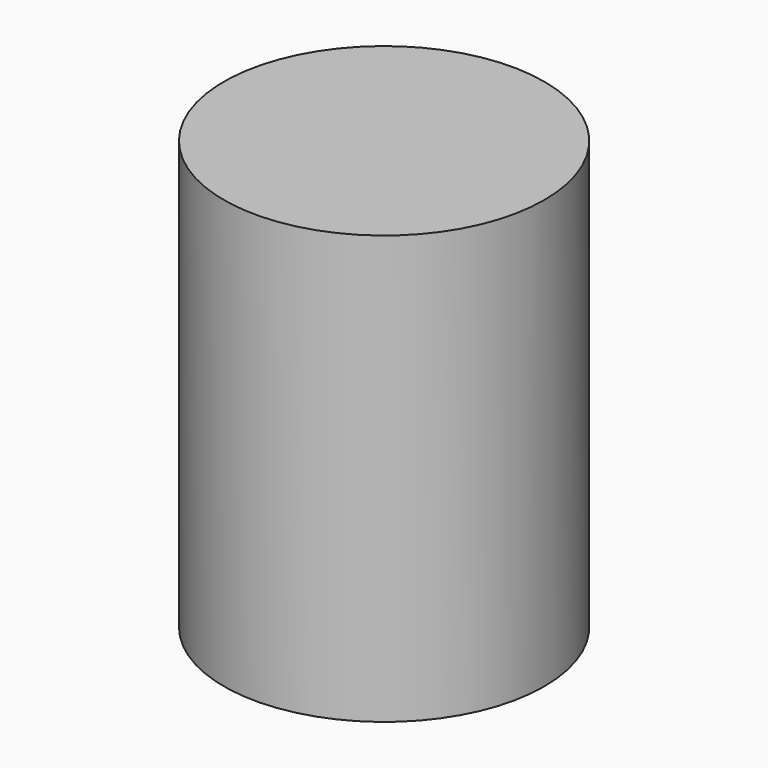
from build123d import *

# Parameters (mm, degrees)
F0_R     = 57.0263745586
F1_DEPTH = 152.4
F3_D     = 107.95
F3_DEPTH = 114.3
F3_TIP   = 32.431451912


with BuildPart() as f1:
    # F0 (on Top) → F1 (new body)
    with BuildSketch(Plane.XY):
        with Locations((-0.375004136, 0.1875015732)):
            Circle(F0_R)
    extrude(amount=F1_DEPTH)

    # F3
    with Locations(Plane(origin=(0, 0, 0), x_dir=(1, 0, 0), z_dir=(0, 0, -1))):
        with Locations((0, 0)):
            Hole(F3_D / 2, depth=F3_DEPTH)
            with Locations((0, 0, -(F3_DEPTH + F3_TIP / 2))):  # 118° drill point
                Cone(0, F3_D / 2, F3_TIP, mode=Mode.SUBTRACT)


solid = f1.part
